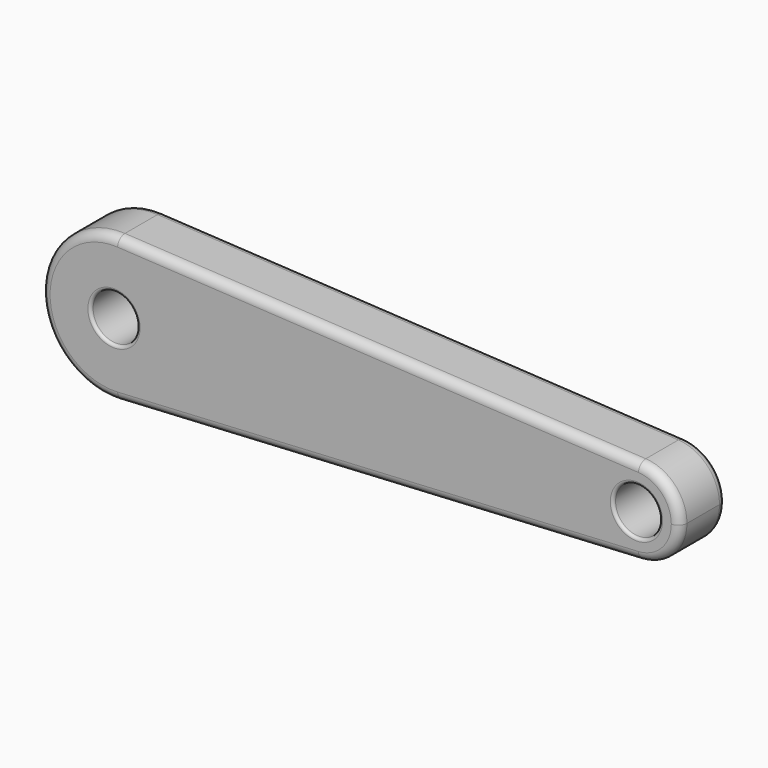
from build123d import *

# Parameters (mm, degrees)
F0_R     = 4
F1_DEPTH = 10
F2_R     = 1.5
F3_R     = 0.5


with BuildPart() as f1:
    # F0 (on Front) → F1 (new body)
    with BuildSketch(Plane.XZ):
        with BuildLine():
            ThreePointArc((-45.45253, 12.480695), (-37.065935, 8.589803), (-33.646974, 0))
            ThreePointArc((-33.646974, 0), (-37.065935, -8.589803), (-45.45253, -12.480695))
            Line((-45.45253, -12.480695), (44.269693, -7.488417))
            ThreePointArc((44.269693, -7.488417), (36.353026, 0), (44.269693, 7.488417))
            Line((44.269693, 7.488417), (-45.45253, 12.480695))
        make_face()
        with BuildLine():
            ThreePointArc((51.353026, 0), (49.30165, 5.153882), (44.269693, 7.488417))
            ThreePointArc((44.269693, 7.488417), (36.353026, 0), (44.269693, -7.488417))
            ThreePointArc((44.269693, -7.488417), (49.30165, -5.153882), (51.353026, 0))
        make_face()
        with Locations((43.853026, 0)):
            Circle(F0_R, mode=Mode.SUBTRACT)
        with BuildLine():
            ThreePointArc((-45.45253, -12.480695), (-37.065935, -8.589803), (-33.646974, 0))
            ThreePointArc((-33.646974, 0), (-37.065935, 8.589803), (-45.45253, 12.480695))
            ThreePointArc((-45.45253, 12.480695), (-58.646974, 0), (-45.45253, -12.480695))
        make_face()
        with Locations((-46.146974, 0)):
            Circle(F0_R, mode=Mode.SUBTRACT)
    extrude(amount=F1_DEPTH)

    # F2
    f2_edges = [f1.edges().sort_by_distance(p)[0] for p in [
        (-0.591418, -10, -9.984556),
        (-0.591418, 0, -9.984556),
    ]]
    fillet(f2_edges, radius=F2_R)

    # F3
    f3_edges = [f1.edges().sort_by_distance(p)[0] for p in [
        (-50.146974, 0, 0),
        (-50.146974, -10, 0),
        (39.853026, 0, 0),
        (39.853026, -10, 0),
    ]]
    fillet(f3_edges, radius=F3_R)


solid = f1.part
